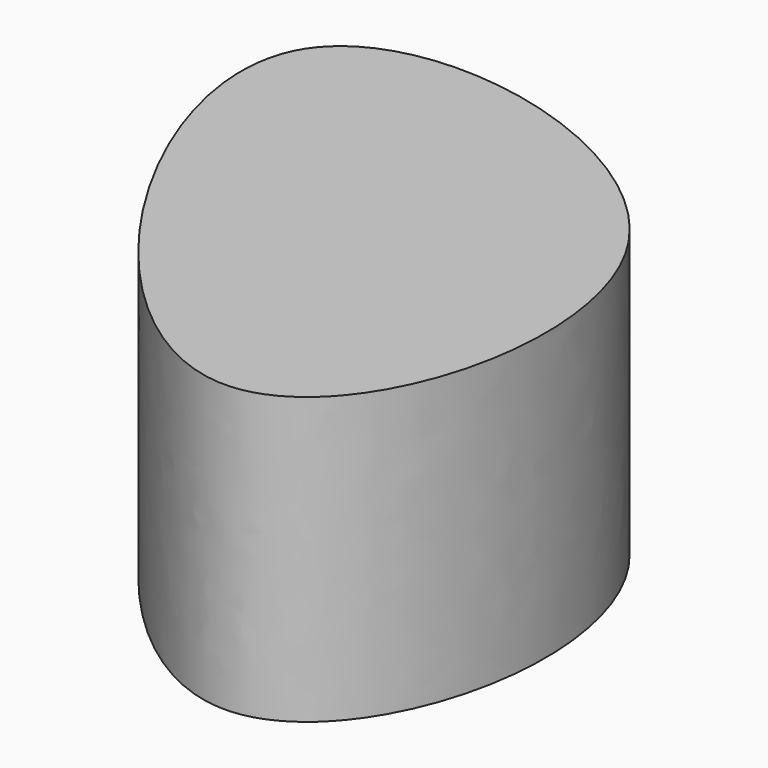
from build123d import *

# Parameters (mm, degrees)
F1_DEPTH = 25.4


with BuildPart() as f1:
    # F0 (on Top) → F1 (new body)
    with BuildSketch(Plane.XY):
        with BuildLine():
            add(Edge.make_bspline(
                [(-60.7237927616, 8.5643650964), (-66.1671779099, -2.6411040094), (-29.9023147131, -58.8004395897), (-9.809099223, 8.7450515985), (-56.0207240883, 18.2458572718), (-60.7237927616, 8.5643650964)],
                knots=[0, 0, 0, 0, 0.3709613148, 0.6794905209, 1, 1, 1, 1], degree=3))
        make_face()
    extrude(amount=F1_DEPTH)


solid = f1.part
